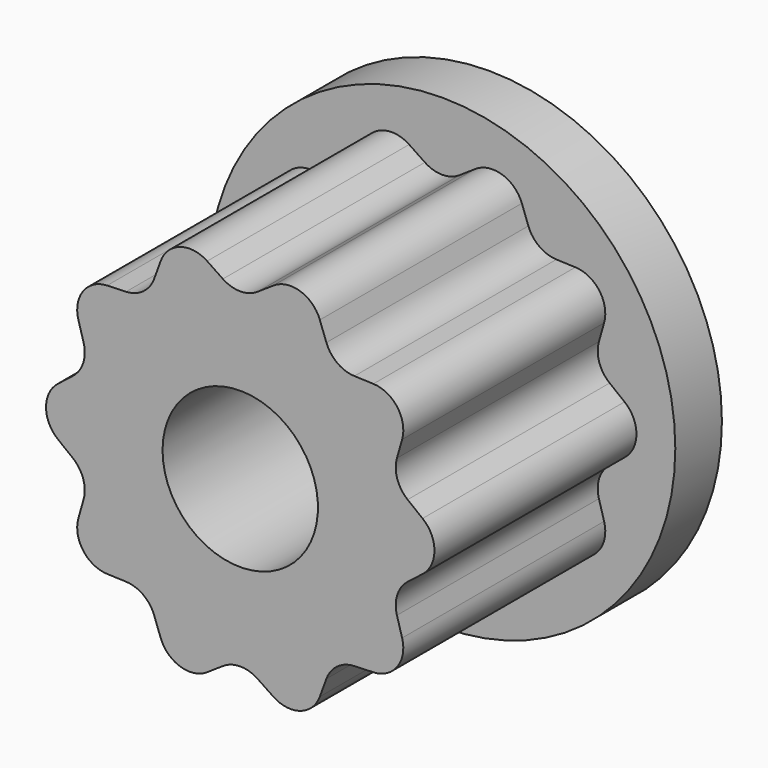
from build123d import *

# Parameters (mm, degrees)
F1_DEPTH = 6.5
F0_R     = 6
F2_DEPTH = 1.5
F4_D     = 4


with BuildPart() as f1:
    # F0 (on Front) → F1 (new body)
    with BuildSketch(Plane.XZ):
        with BuildLine():
            ThreePointArc((2.938982, 3.286074), (2.498087, 3.438322), (2.217047, 3.810591))
            Line((2.217047, 3.810591), (2.04914, 4.269383))
            ThreePointArc((2.04914, 4.269383), (1.545085, 4.755283), (0.851691, 4.658458))
            Line((0.851691, 4.658458), (0.446181, 4.38598))
            ThreePointArc((0.446181, 4.38598), (0, 4.25), (-0.446181, 4.38598))
            Line((-0.446181, 4.38598), (-0.851691, 4.658458))
            ThreePointArc((-0.851691, 4.658458), (-1.545085, 4.755283), (-2.04914, 4.269383))
            Line((-2.04914, 4.269383), (-2.217047, 3.810591))
            ThreePointArc((-2.217047, 3.810591), (-2.498087, 3.438322), (-2.938982, 3.286074))
            Line((-2.938982, 3.286074), (-3.427205, 3.26816))
            ThreePointArc((-3.427205, 3.26816), (-4.045085, 2.938926), (-4.16727, 2.249549))
            Line((-4.16727, 2.249549), (-4.033437, 1.779685))
            ThreePointArc((-4.033437, 1.779685), (-4.04199, 1.313322), (-4.309192, 0.930999))
            Line((-4.309192, 0.930999), (-4.693643, 0.629537))
            ThreePointArc((-4.693643, 0.629537), (-5, 0), (-4.693643, -0.629537))
            Line((-4.693643, -0.629537), (-4.309192, -0.930999))
            ThreePointArc((-4.309192, -0.930999), (-4.04199, -1.313322), (-4.033437, -1.779685))
            Line((-4.033437, -1.779685), (-4.16727, -2.249549))
            ThreePointArc((-4.16727, -2.249549), (-4.045085, -2.938926), (-3.427205, -3.26816))
            Line((-3.427205, -3.26816), (-2.938982, -3.286074))
            ThreePointArc((-2.938982, -3.286074), (-2.498087, -3.438322), (-2.217047, -3.810591))
            Line((-2.217047, -3.810591), (-2.04914, -4.269383))
            ThreePointArc((-2.04914, -4.269383), (-1.545085, -4.755283), (-0.851691, -4.658458))
            Line((-0.851691, -4.658458), (-0.446181, -4.38598))
            ThreePointArc((-0.446181, -4.38598), (0, -4.25), (0.446181, -4.38598))
            Line((0.446181, -4.38598), (0.851691, -4.658458))
            ThreePointArc((0.851691, -4.658458), (1.545085, -4.755283), (2.04914, -4.269383))
            Line((2.04914, -4.269383), (2.217047, -3.810591))
            ThreePointArc((2.217047, -3.810591), (2.498087, -3.438322), (2.938982, -3.286074))
            Line((2.938982, -3.286074), (3.427205, -3.26816))
            ThreePointArc((3.427205, -3.26816), (4.045085, -2.938926), (4.16727, -2.249549))
            Line((4.16727, -2.249549), (4.033437, -1.779685))
            ThreePointArc((4.033437, -1.779685), (4.04199, -1.313322), (4.309192, -0.930999))
            Line((4.309192, -0.930999), (4.693643, -0.629537))
            ThreePointArc((4.693643, -0.629537), (5, 0), (4.693643, 0.629537))
            Line((4.693643, 0.629537), (4.309192, 0.930999))
            ThreePointArc((4.309192, 0.930999), (4.04199, 1.313322), (4.033437, 1.779685))
            Line((4.033437, 1.779685), (4.16727, 2.249549))
            ThreePointArc((4.16727, 2.249549), (4.045085, 2.938926), (3.427205, 3.26816))
            Line((3.427205, 3.26816), (2.938982, 3.286074))
        make_face()
    extrude(amount=F1_DEPTH)

    # F0 (on Front) → F2 (join)
    with BuildSketch(Plane.XZ):
        Circle(F0_R)
        with BuildLine():
            Line((2.04914, 4.269383), (2.217047, 3.810591))
            ThreePointArc((2.217047, 3.810591), (2.498087, 3.438322), (2.938982, 3.286074))
            Line((2.938982, 3.286074), (3.427205, 3.26816))
            ThreePointArc((3.427205, 3.26816), (4.045085, 2.938926), (4.16727, 2.249549))
            Line((4.16727, 2.249549), (4.033437, 1.779685))
            ThreePointArc((4.033437, 1.779685), (4.04199, 1.313322), (4.309192, 0.930999))
            Line((4.309192, 0.930999), (4.693643, 0.629537))
            ThreePointArc((4.693643, 0.629537), (5, 0), (4.693643, -0.629537))
            Line((4.693643, -0.629537), (4.309192, -0.930999))
            ThreePointArc((4.309192, -0.930999), (4.04199, -1.313322), (4.033437, -1.779685))
            Line((4.033437, -1.779685), (4.16727, -2.249549))
            ThreePointArc((4.16727, -2.249549), (4.045085, -2.938926), (3.427205, -3.26816))
            Line((3.427205, -3.26816), (2.938982, -3.286074))
            ThreePointArc((2.938982, -3.286074), (2.498087, -3.438322), (2.217047, -3.810591))
            Line((2.217047, -3.810591), (2.04914, -4.269383))
            ThreePointArc((2.04914, -4.269383), (1.545085, -4.755283), (0.851691, -4.658458))
            Line((0.851691, -4.658458), (0.446181, -4.38598))
            ThreePointArc((0.446181, -4.38598), (0, -4.25), (-0.446181, -4.38598))
            Line((-0.446181, -4.38598), (-0.851691, -4.658458))
            ThreePointArc((-0.851691, -4.658458), (-1.545085, -4.755283), (-2.04914, -4.269383))
            Line((-2.04914, -4.269383), (-2.217047, -3.810591))
            ThreePointArc((-2.217047, -3.810591), (-2.498087, -3.438322), (-2.938982, -3.286074))
            Line((-2.938982, -3.286074), (-3.427205, -3.26816))
            ThreePointArc((-3.427205, -3.26816), (-4.045085, -2.938926), (-4.16727, -2.249549))
            Line((-4.16727, -2.249549), (-4.033437, -1.779685))
            ThreePointArc((-4.033437, -1.779685), (-4.04199, -1.313322), (-4.309192, -0.930999))
            Line((-4.309192, -0.930999), (-4.693643, -0.629537))
            ThreePointArc((-4.693643, -0.629537), (-5, 0), (-4.693643, 0.629537))
            Line((-4.693643, 0.629537), (-4.309192, 0.930999))
            ThreePointArc((-4.309192, 0.930999), (-4.04199, 1.313322), (-4.033437, 1.779685))
            Line((-4.033437, 1.779685), (-4.16727, 2.249549))
            ThreePointArc((-4.16727, 2.249549), (-4.045085, 2.938926), (-3.427205, 3.26816))
            Line((-3.427205, 3.26816), (-2.938982, 3.286074))
            ThreePointArc((-2.938982, 3.286074), (-2.498087, 3.438322), (-2.217047, 3.810591))
            Line((-2.217047, 3.810591), (-2.04914, 4.269383))
            ThreePointArc((-2.04914, 4.269383), (-1.545085, 4.755283), (-0.851691, 4.658458))
            Line((-0.851691, 4.658458), (-0.446181, 4.38598))
            ThreePointArc((-0.446181, 4.38598), (0, 4.25), (0.446181, 4.38598))
            Line((0.446181, 4.38598), (0.851691, 4.658458))
            ThreePointArc((0.851691, 4.658458), (1.545085, 4.755283), (2.04914, 4.269383))
        make_face(mode=Mode.SUBTRACT)
        with BuildLine():
            ThreePointArc((2.938982, 3.286074), (2.498087, 3.438322), (2.217047, 3.810591))
            Line((2.217047, 3.810591), (2.04914, 4.269383))
            ThreePointArc((2.04914, 4.269383), (1.545085, 4.755283), (0.851691, 4.658458))
            Line((0.851691, 4.658458), (0.446181, 4.38598))
            ThreePointArc((0.446181, 4.38598), (0, 4.25), (-0.446181, 4.38598))
            Line((-0.446181, 4.38598), (-0.851691, 4.658458))
            ThreePointArc((-0.851691, 4.658458), (-1.545085, 4.755283), (-2.04914, 4.269383))
            Line((-2.04914, 4.269383), (-2.217047, 3.810591))
            ThreePointArc((-2.217047, 3.810591), (-2.498087, 3.438322), (-2.938982, 3.286074))
            Line((-2.938982, 3.286074), (-3.427205, 3.26816))
            ThreePointArc((-3.427205, 3.26816), (-4.045085, 2.938926), (-4.16727, 2.249549))
            Line((-4.16727, 2.249549), (-4.033437, 1.779685))
            ThreePointArc((-4.033437, 1.779685), (-4.04199, 1.313322), (-4.309192, 0.930999))
            Line((-4.309192, 0.930999), (-4.693643, 0.629537))
            ThreePointArc((-4.693643, 0.629537), (-5, 0), (-4.693643, -0.629537))
            Line((-4.693643, -0.629537), (-4.309192, -0.930999))
            ThreePointArc((-4.309192, -0.930999), (-4.04199, -1.313322), (-4.033437, -1.779685))
            Line((-4.033437, -1.779685), (-4.16727, -2.249549))
            ThreePointArc((-4.16727, -2.249549), (-4.045085, -2.938926), (-3.427205, -3.26816))
            Line((-3.427205, -3.26816), (-2.938982, -3.286074))
            ThreePointArc((-2.938982, -3.286074), (-2.498087, -3.438322), (-2.217047, -3.810591))
            Line((-2.217047, -3.810591), (-2.04914, -4.269383))
            ThreePointArc((-2.04914, -4.269383), (-1.545085, -4.755283), (-0.851691, -4.658458))
            Line((-0.851691, -4.658458), (-0.446181, -4.38598))
            ThreePointArc((-0.446181, -4.38598), (0, -4.25), (0.446181, -4.38598))
            Line((0.446181, -4.38598), (0.851691, -4.658458))
            ThreePointArc((0.851691, -4.658458), (1.545085, -4.755283), (2.04914, -4.269383))
            Line((2.04914, -4.269383), (2.217047, -3.810591))
            ThreePointArc((2.217047, -3.810591), (2.498087, -3.438322), (2.938982, -3.286074))
            Line((2.938982, -3.286074), (3.427205, -3.26816))
            ThreePointArc((3.427205, -3.26816), (4.045085, -2.938926), (4.16727, -2.249549))
            Line((4.16727, -2.249549), (4.033437, -1.779685))
            ThreePointArc((4.033437, -1.779685), (4.04199, -1.313322), (4.309192, -0.930999))
            Line((4.309192, -0.930999), (4.693643, -0.629537))
            ThreePointArc((4.693643, -0.629537), (5, 0), (4.693643, 0.629537))
            Line((4.693643, 0.629537), (4.309192, 0.930999))
            ThreePointArc((4.309192, 0.930999), (4.04199, 1.313322), (4.033437, 1.779685))
            Line((4.033437, 1.779685), (4.16727, 2.249549))
            ThreePointArc((4.16727, 2.249549), (4.045085, 2.938926), (3.427205, 3.26816))
            Line((3.427205, 3.26816), (2.938982, 3.286074))
        make_face()
    extrude(amount=-F2_DEPTH)

    # F4 (through all)
    with Locations(Plane.XZ.offset(6.5)):
        with Locations((0, 0)):
            Hole(F4_D / 2)


solid = f1.part
